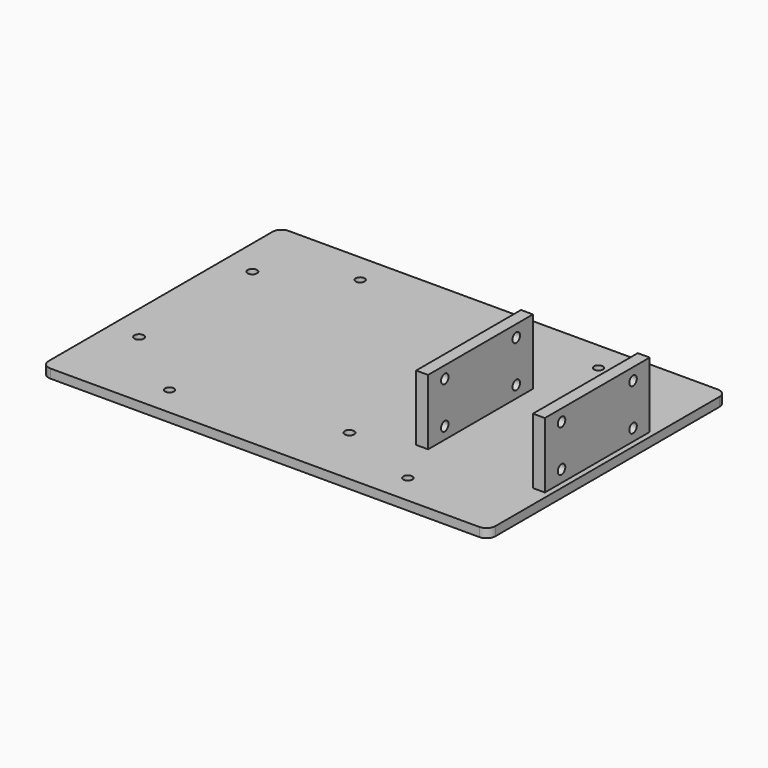
from build123d import *

# Parameters (mm, degrees)
F1_W     = 4
F1_H     = 44
F2_DEPTH = 22
F0_W     = 150
F0_H     = 100
F0_R     = 1.5
F3_DEPTH = 3
F4_D     = 3.15
F5_D     = 3.15
F6_D     = 3.15
F7_D     = 3.15
F9_D     = 3.15
F9_DEPTH = 39.201
F10_R    = 3
F11_R    = 3
F12_D    = 3.15


with BuildPart() as f2:
    # F1 (on face) → F2 (new body)
    with BuildSketch(Plane.XY):
        with Locations((25.3316215873, 8.6806822121)):
            Rectangle(F1_W, F1_H)
    extrude(amount=F2_DEPTH)

    # F12 (through all)
    with Locations(Plane.YZ.offset(27.3316215873)):
        with Locations((23.6806822121, 18), (23.6806822121, 4), (-6.3193177879, 4), (-6.3193177879, 18)):
            Hole(F12_D / 2)


with BuildPart() as f2b:
    # F1 (on face) → F2, piece 2 (new body)
    with BuildSketch(Plane.XY):
        with Locations((64.5316215873, 8.6806822121)):
            Rectangle(F1_W, F1_H)
    extrude(amount=F2_DEPTH)

    # F9 (through all, one way)
    with BuildSketch(Plane(origin=(27.3316215873, 0, 0), x_dir=(0, 1, 0), z_dir=(-1, 0, 0))):
        with Locations((23.6806822121, -18), (23.6806822121, -4), (-6.3193177879, -18), (-6.3193177879, -4)):
            Circle(F9_D / 2)
    extrude(amount=-F9_DEPTH, mode=Mode.SUBTRACT)


with BuildPart() as f3:
    # F0 (on Top) → F3 (new body)
    with BuildSketch(Plane.XY):
        with Locations((-6.6683784127, 10.6806822121)):
            Rectangle(F0_W, F0_H)
        with Locations((-46.6683784127, -29.3193177879)):
            Circle(F0_R, mode=Mode.SUBTRACT)
        with Locations((33.3316215873, -29.3193177879)):
            Circle(F0_R, mode=Mode.SUBTRACT)
        with Locations((-46.6683784127, 50.6806822121)):
            Circle(F0_R, mode=Mode.SUBTRACT)
        with Locations((33.3316215873, 50.6806822121)):
            Circle(F0_R, mode=Mode.SUBTRACT)
    extrude(amount=-F3_DEPTH)

    # F4 (through all)
    with Locations(Plane.XY):
        with Locations((-71.6683784127, 36.6806822121)):
            Hole(F4_D / 2)

    # F5 (through all)
    with Locations(Plane.XY):
        with Locations((5.3316215873, 36.6806822121)):
            Hole(F5_D / 2)

    # F6 (through all)
    with Locations(Plane.XY):
        with Locations((-71.6683784127, -10.8193177879)):
            Hole(F6_D / 2)

    # F7 (through all)
    with Locations(Plane.XY):
        with Locations((5.3316215873, -18.8193177879)):
            Hole(F7_D / 2)

    # F10
    f10_edges = [f3.edges().sort_by_distance(p)[0] for p in [
        (-81.668378, 60.680682, -1.5),
    ]]
    fillet(f10_edges, radius=F10_R)

    # F11
    f11_edges = [f3.edges().sort_by_distance(p)[0] for p in [
        (-81.668378, -39.319318, -1.5),
        (68.331622, -39.319318, -1.5),
        (68.331622, 60.680682, -1.5),
    ]]
    fillet(f11_edges, radius=F11_R)


solid = Compound([f2.part, f2b.part, f3.part])
